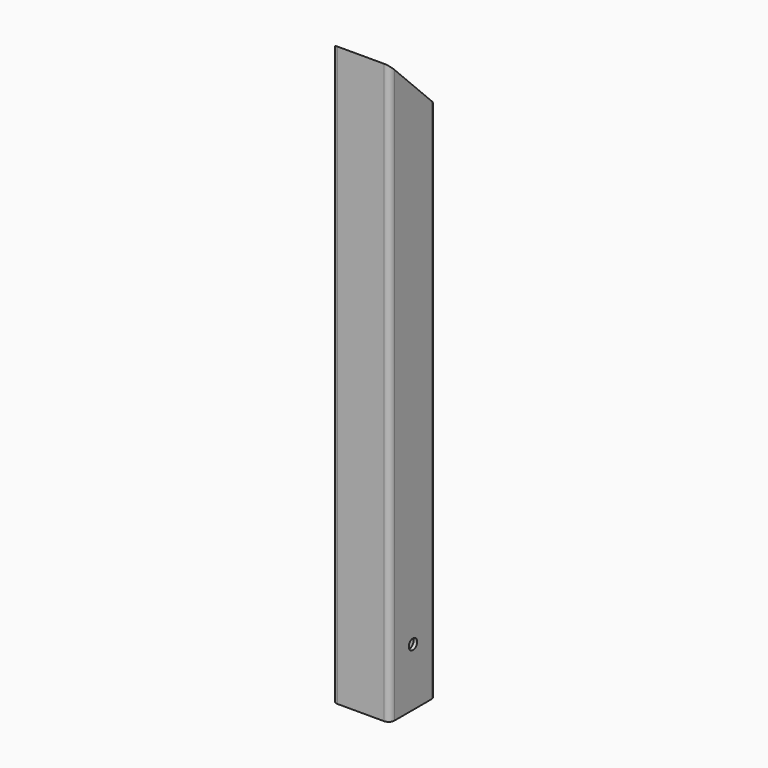
from build123d import *

# Parameters (mm, degrees)
F1_DEPTH      = 500
F3_DEPTH      = 500.001
F5_DEPTH      = 25.001
F5_DEPTH_BACK = 25
F7_D          = 9


with BuildPart() as f1:
    # F0 (on Top) → F1 (new body)
    with BuildSketch(Plane.XY):
        with BuildLine():
            ThreePointArc((25, 20), (23.5355339059, 23.5355339059), (20, 25))
            Line((20, 25), (-20, 25))
            ThreePointArc((-20, 25), (-23.5355339059, 23.5355339059), (-25, 20))
            Line((-25, 20), (-25, -20))
            ThreePointArc((-25, -20), (-23.5355339059, -23.5355339059), (-20, -25))
            Line((-20, -25), (20, -25))
            ThreePointArc((20, -25), (23.5355339059, -23.5355339059), (25, -20))
            Line((25, -20), (25, 20))
        make_face()
    extrude(amount=F1_DEPTH)

    # F2 (on face) → F3 (cut, through all)
    with BuildSketch(Plane.XY.offset(500)):
        with BuildLine():
            ThreePointArc((-22, -20), (-21.4142135624, -21.4142135624), (-20, -22))
            Line((-20, -22), (20, -22))
            ThreePointArc((20, -22), (21.4142135624, -21.4142135624), (22, -20))
            Line((22, -20), (22, 20))
            ThreePointArc((22, 20), (21.4142135624, 21.4142135624), (20, 22))
            Line((20, 22), (-20, 22))
            ThreePointArc((-20, 22), (-21.4142135624, 21.4142135624), (-22, 20))
            Line((-22, 20), (-22, -20))
        make_face()
    extrude(amount=-F3_DEPTH, mode=Mode.SUBTRACT)

    # F4 (on Right) → F5 (cut, two sides)
    with BuildSketch(Plane.YZ) as f5_sk:
        Polygon((25, 500), (-25, 500), (25, 450), align=None)
    extrude(amount=-F5_DEPTH, mode=Mode.SUBTRACT)
    extrude(f5_sk.sketch, amount=F5_DEPTH_BACK, mode=Mode.SUBTRACT)

    # F7 (through all)
    with Locations(Plane.YZ.offset(25)):
        with Locations((0, 50)):
            Hole(F7_D / 2)


solid = f1.part
